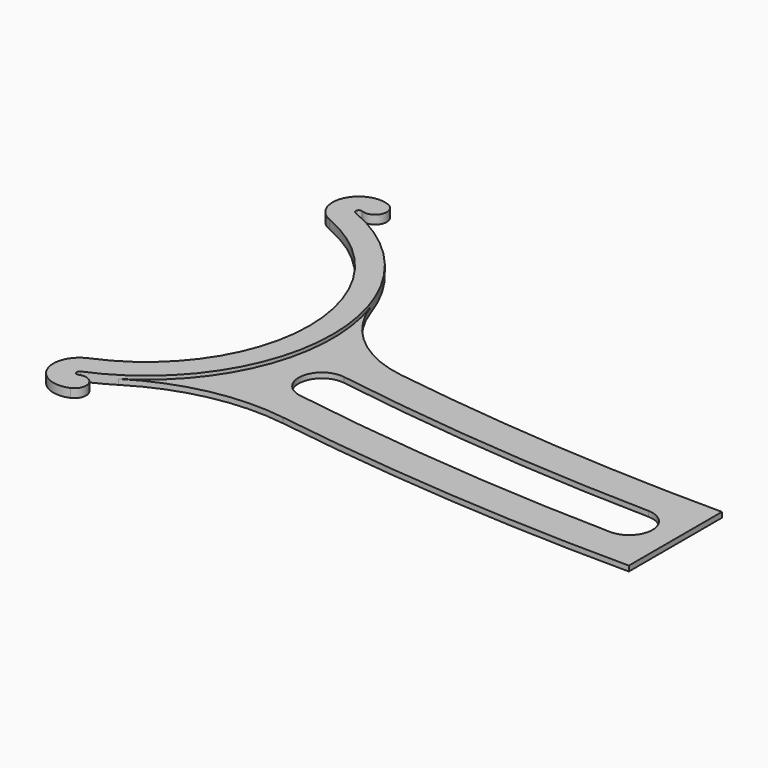
from build123d import *

# Parameters (mm, degrees)
PAD_DEPTH    = 1.5
PAD001_DEPTH = 0.9


with BuildPart() as body:
    # Sketch → Pad (new body)
    with BuildSketch(Plane.XY):
        with BuildLine():
            ThreePointArc((92, 56.2709215446), (72.3076923077, 26.7324600061), (92, -2.8060015324))
            ThreePointArc((91.6153846154, -3.7290784554), (92.2692307692, -3.4598476862), (92, -2.8060015324))
            ThreePointArc((91.6153846154, -3.7290784554), (89, -4.8060015324), (90.0769230769, -7.4213861477))
            ThreePointArc((90.0769230769, -7.4213861477), (95.9615384615, -4.9983092247), (93.5384615385, 0.88630616))
            ThreePointArc((93.5384615385, 52.5786138523), (76.3076923077, 26.7324600061), (93.5384615385, 0.88630616))
            ThreePointArc((93.5384615385, 52.5786138523), (95.9615384615, 58.4632292369), (90.0769230769, 60.88630616))
            ThreePointArc((90.0769230769, 60.88630616), (89, 58.2709215446), (91.6153846154, 57.1939984676))
            ThreePointArc((92, 56.2709215446), (92.2692307692, 56.9247676984), (91.6153846154, 57.1939984676))
        make_face()
    extrude(amount=PAD_DEPTH)

    # Sketch001 → Pad001 (join)
    with BuildSketch(Plane.XY):
        with BuildLine():
            ThreePointArc((0, 20), (29.323857539, 21.0437591192), (58.4992960523, 24.1697536209))
            ThreePointArc((58.4992960523, 24.1697536209), (68.0731220762, 28.4157701053), (74.013620455, 37.0411558783))
            ThreePointArc((74.013620455, 37.0411558783), (74.1652431283, 15.9884962371), (87.3639974769, -0.4136484716))
            ThreePointArc((87.3639974769, -0.4136484716), (75.7108888805, 4.2658460628), (63.1588059736, 4.6370922787))
            ThreePointArc((0, 0), (31.664401924, 1.1608311192), (63.1588059736, 4.6370922787))
            Line((0, 20), (0, 0))
        make_face()
        with BuildLine():
            ThreePointArc((8.0757502279, 6.0764743472), (36.8018825362, 7.5909701802), (65.3605544983, 11.0386695272))
            ThreePointArc((65.3605544983, 11.0386695272), (68.7002124728, 15.6044864983), (64.1343955017, 18.9441444728))
            ThreePointArc((7.9242497721, 14.0750396943), (36.1114820384, 15.5611237014), (64.1343955017, 18.9441444728))
            ThreePointArc((7.9242497721, 14.0750396943), (4.0007173264, 10.0000067928), (8.0757502279, 6.0764743472))
        make_face(mode=Mode.SUBTRACT)
    extrude(amount=PAD001_DEPTH)


with BuildPart() as part_mirroring:
    # Part__Mirroring: instance of Body
    add(body.part.mirror(Plane(origin=(0, 0, 0), x_dir=(0, -1, 0), z_dir=(1, 0, 0))))


solid = part_mirroring.part
